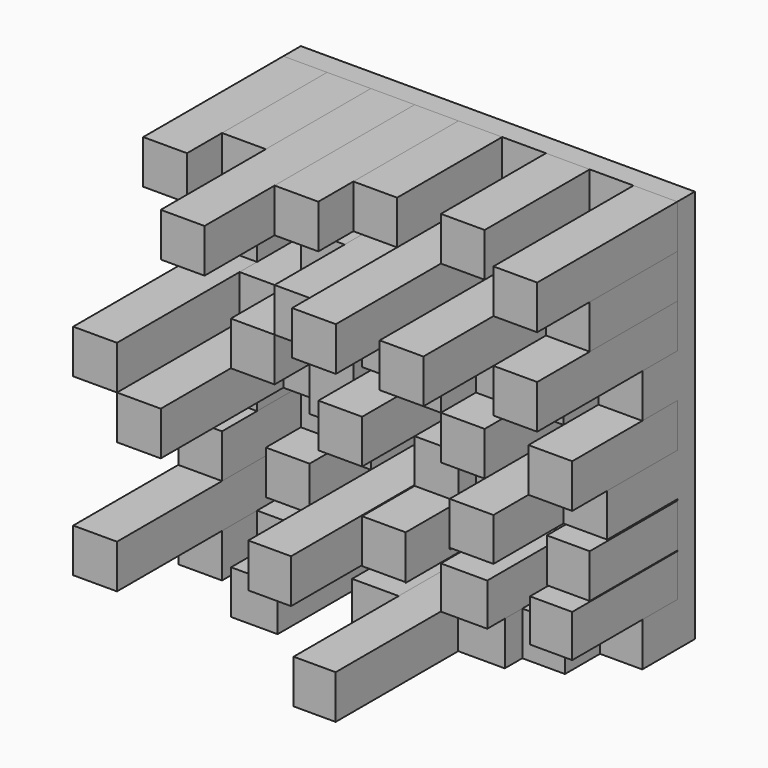
from build123d import *

# Parameters (mm, degrees)
F0_W     = 457.2
F0_H     = 457.2
F1_DEPTH = 25.4
F2_W     = 50.8
F2_H     = 50.8
F2_W_2   = 49.0413205385
F3_DEPTH = 50.8
F2_W_3   = 50.0872740626
F2_W_4   = 49.5425760746
F2_W_5   = 51.0927143574
F4_DEPTH = 101.6
F5_DEPTH = 203.2
F2_W_6   = 54.0473535657
F6_DEPTH = 152.4
F2_H_2   = 49.248783002
F7_DEPTH = 127
F2_W_7   = 49.7753368378
F2_H_3   = 50.8513133973
F2_W_8   = 45.7891877741
F2_H_4   = 50.5978857078
F8_DEPTH = 304.8
F2_W_9   = 49.5903550923
F2_H_5   = 50.9530280046
F2_W_10  = 48.7919058651


with BuildPart() as f1:
    # F0 (on Front) → F1 (new body)
    with BuildSketch(Plane.XZ):
        with Locations((-2.1820962429, 100.8818132959)):
            Rectangle(F0_W, F0_H)
    extrude(amount=F1_DEPTH)

    # F2 (on face) → F3 (join)
    with BuildSketch(Plane.XZ.offset(25.4)):
        with Locations((-103.7820962429, 253.2818132959)):
            Rectangle(F2_W, F2_H)
        with Locations((201.8972434878, -102.3181867041)):
            Rectangle(F2_W_2, F2_H)
        Polygon((23.2179037571, 75.4818132959), (-27.5820962429, 75.4818132959), (-27.5820962429, 24.6818132959), (22.0082588494, 24.6818132959), (23.2179037571, 24.6818132959), align=None)
        Polygon((-129.1820962429, -26.1181867041), (-179.9820962429, -26.1181867041), (-179.9820962429, -76.9181867041), (-128.8893818855, -76.9181867041), (-128.8893818855, -26.1181867041), align=None)
        with Locations((99.4179037571, 253.2818132959)):
            Rectangle(F2_W, F2_H)
        with Locations((-154.5820962429, 50.0818132959)):
            Rectangle(F2_W, F2_H)
        with Locations((201.0179037571, 151.6818132959)):
            Rectangle(F2_W, F2_H)
        with Locations((-2.1820962429, 151.6818132959)):
            Rectangle(F2_W, F2_H)
        Polygon((176.6425669193, 24.0300893784), (175.6179037571, 24.0300893784), (125.6067305803, 24.0300893784), (125.6067305803, -26.8695764244), (176.6425669193, -26.8695764244), (176.6425669193, -26.8212240189), align=None)
    extrude(amount=F3_DEPTH)

    # F2 (on face) → F4 (join)
    with BuildSketch(Plane.XZ.offset(25.4)):
        with Locations((-205.3820962429, 304.0818132959)):
            Rectangle(F2_W, F2_H)
        with Locations((-2.1820962429, 304.0818132959)):
            Rectangle(F2_W, F2_H)
        with Locations((-103.7820962429, 151.6818132959)):
            Rectangle(F2_W, F2_H)
        with Locations((99.0615407884, 50.0818132959)):
            Rectangle(F2_W_3, F2_H)
        Polygon((-27.5820962429, -76.9181867041), (-29.0528405458, -76.9181867041), (-29.0528405458, -127.7181867041), (24.9945092946, -127.7181867041), (24.9945092946, -76.9181867041), align=None)
        with Locations((201.0179037571, 304.0818132959)):
            Rectangle(F2_W, F2_H)
        with Locations((99.4179037571, 151.6818132959)):
            Rectangle(F2_W, F2_H)
        with Locations((-205.3820962429, 202.4818132959)):
            Rectangle(F2_W, F2_H)
        with Locations((-205.3820962429, -102.3181867041)):
            Rectangle(F2_W, F2_H)
        Polygon((-78.3820962429, 24.6818132959), (-129.1820962429, 24.6818132959), (-129.1820962429, -26.1181867041), (-128.8893818855, -26.1181867041), (-78.3820962429, -26.1181867041), align=None)
        with Locations((-205.3820962429, 100.8818132959)):
            Rectangle(F2_W, F2_H)
        with Locations((-52.9820962429, 202.4818132959)):
            Rectangle(F2_W, F2_H)
        with Locations((150.2179037571, 202.4818132959)):
            Rectangle(F2_W, F2_H)
        Polygon((226.4179037571, 75.4818132959), (175.6179037571, 75.4818132959), (175.6179037571, 25.5301110446), (176.6425669193, 25.5301110446), (226.4179037571, 25.5301110446), align=None)
        with Locations((152.6052951813, -102.3181867041)):
            Rectangle(F2_W_4, F2_H)
        with Locations((99.4179037571, 202.4818132959)):
            Rectangle(F2_W, F2_H)
        with Locations((150.2179037571, 151.6818132959)):
            Rectangle(F2_W, F2_H)
        with Locations((-103.7820962429, 202.4818132959)):
            Rectangle(F2_W, F2_H)
        with Locations((-52.9820962429, 151.6818132959)):
            Rectangle(F2_W, F2_H)
        with Locations((-205.3820962429, 50.0818132959)):
            Rectangle(F2_W, F2_H)
        with Locations((-103.7820962429, 50.0818132959)):
            Rectangle(F2_W, F2_H)
        with Locations((-154.4357390642, -102.3181867041)):
            Rectangle(F2_W_5, F2_H)
    extrude(amount=F4_DEPTH)


with BuildPart() as f5:
    # F2 (on face) → F5 (new body)
    with BuildSketch(Plane.XZ.offset(25.4)):
        with Locations((48.6179037571, 202.4818132959)):
            Rectangle(F2_W, F2_H)
    extrude(amount=F5_DEPTH)


with BuildPart() as f5b:
    # F2 (on face) → F5, piece 2 (new body)
    with BuildSketch(Plane.XZ.offset(25.4)):
        with Locations((-52.9820962429, 202.4818132959)):
            Rectangle(F2_W, F2_H)
    extrude(amount=F5_DEPTH)


with BuildPart() as f5c:
    # F2 (on face) → F5, piece 3 (new body)
    with BuildSketch(Plane.XZ.offset(25.4)):
        with Locations((-103.7820962429, 151.6818132959)):
            Rectangle(F2_W, F2_H)
    extrude(amount=F5_DEPTH)


with BuildPart() as f5d:
    # F2 (on face) → F5, piece 4 (new body)
    with BuildSketch(Plane.XZ.offset(25.4)):
        with Locations((201.0179037571, 202.4818132959)):
            Rectangle(F2_W, F2_H)
    extrude(amount=F5_DEPTH)


with BuildPart() as f5e:
    # F2 (on face) → F5, piece 5 (new body)
    with BuildSketch(Plane.XZ.offset(25.4)):
        Polygon((175.6179037571, 75.4818132959), (124.8179037571, 75.4818132959), (124.8179037571, 24.6818132959), (124.8474121094, 24.6818132959), (124.8474121094, 24.0300893784), (125.6067305803, 24.0300893784), (125.6067305803, 25.5301110446), (175.6179037571, 25.5301110446), align=None)
    extrude(amount=F5_DEPTH)


with BuildPart() as f5f:
    # F2 (on face) → F5, piece 6 (new body)
    with BuildSketch(Plane.XZ.offset(25.4)):
        Polygon((73.8031491637, 24.6818132959), (23.2179037571, 24.6818132959), (23.2179037571, -26.2712147087), (24.9945092946, -26.2712147087), (73.7864151597, -26.2712147087), (73.7864151597, -26.9699431956), (73.8031491637, -26.9699431956), align=None)
    extrude(amount=F5_DEPTH)


with BuildPart() as f5g:
    # F2 (on face) → F5, piece 7 (new body)
    with BuildSketch(Plane.XZ.offset(25.4)):
        with Locations((-2.1820962429, 100.8818132959)):
            Rectangle(F2_W, F2_H)
    extrude(amount=F5_DEPTH)


with BuildPart() as f5h:
    # F2 (on face) → F5, piece 8 (new body)
    with BuildSketch(Plane.XZ.offset(25.4)):
        with Locations((-205.3820962429, 304.0818132959)):
            Rectangle(F2_W, F2_H)
    extrude(amount=F5_DEPTH)


with BuildPart() as f5i:
    # F2 (on face) → F5, piece 9 (new body)
    with BuildSketch(Plane.XZ.offset(25.4)):
        with Locations((-52.9820962429, 304.0818132959)):
            Rectangle(F2_W, F2_H)
    extrude(amount=F5_DEPTH)


with BuildPart() as f5j:
    # F2 (on face) → F5, piece 10 (new body)
    with BuildSketch(Plane.XZ.offset(25.4)):
        with Locations((201.0179037571, 304.0818132959)):
            Rectangle(F2_W, F2_H)
    extrude(amount=F5_DEPTH)


with BuildPart() as f5k:
    # F2 (on face) → F5, piece 11 (new body)
    with BuildSketch(Plane.XZ.offset(25.4)):
        with Locations((-101.8657051027, -102.3181867041)):
            Rectangle(F2_W_6, F2_H)
    extrude(amount=F5_DEPTH)


with BuildPart() as f6:
    # F2 (on face) → F6 (new body)
    with BuildSketch(Plane.XZ.offset(25.4)):
        with Locations((-52.9820962429, 151.6818132959)):
            Rectangle(F2_W, F2_H)
        with Locations((-52.9820962429, 100.8818132959)):
            Rectangle(F2_W, F2_H)
    extrude(amount=F6_DEPTH)


with BuildPart() as f6b:
    # F2 (on face) → F6, piece 2 (new body)
    with BuildSketch(Plane.XZ.offset(25.4)):
        with Locations((48.6179037571, 151.6818132959)):
            Rectangle(F2_W, F2_H)
    extrude(amount=F6_DEPTH)


with BuildPart() as f6c:
    # F2 (on face) → F6, piece 3 (new body)
    with BuildSketch(Plane.XZ.offset(25.4)):
        with Locations((99.4179037571, 304.0818132959)):
            Rectangle(F2_W, F2_H)
    extrude(amount=F6_DEPTH)


with BuildPart() as f6d:
    # F2 (on face) → F6, piece 4 (new body)
    with BuildSketch(Plane.XZ.offset(25.4)):
        with Locations((-2.1820962429, 304.0818132959)):
            Rectangle(F2_W, F2_H)
    extrude(amount=F6_DEPTH)


with BuildPart() as f6e:
    # F2 (on face) → F6, piece 5 (new body)
    with BuildSketch(Plane.XZ.offset(25.4)):
        Polygon((-27.5820962429, -76.9181867041), (-29.0528405458, -76.9181867041), (-29.0528405458, -127.7181867041), (24.9945092946, -127.7181867041), (24.9945092946, -76.9181867041), align=None)
    extrude(amount=F6_DEPTH)


with BuildPart() as f6f:
    # F2 (on face) → F6, piece 6 (new body)
    with BuildSketch(Plane.XZ.offset(25.4)):
        Polygon((124.8474121094, -27.669403702), (74.0179037571, -27.669403702), (74.0179037571, -76.9181867041), (127.834007144, -76.9181867041), (127.834007144, -27.669403702), align=None)
    extrude(amount=F6_DEPTH)


with BuildPart() as f6g:
    # F2 (on face) → F6, piece 7 (new body)
    with BuildSketch(Plane.XZ.offset(25.4)):
        Polygon((124.8179037571, 126.2818132959), (74.0179037571, 126.2818132959), (74.0179037571, 75.4818132959), (124.1051778197, 75.4818132959), (124.8179037571, 75.4818132959), align=None)
    extrude(amount=F6_DEPTH)


with BuildPart() as f6h:
    # F2 (on face) → F6, piece 8 (new body)
    with BuildSketch(Plane.XZ.offset(25.4)):
        with Locations((-205.3820962429, -0.7181867041)):
            Rectangle(F2_W, F2_H)
    extrude(amount=F6_DEPTH)


with BuildPart() as f6i:
    # F2 (on face) → F6, piece 9 (new body)
    with BuildSketch(Plane.XZ.offset(25.4)):
        with Locations((-154.5820962429, 304.0818132959)):
            Rectangle(F2_W, F2_H)
    extrude(amount=F6_DEPTH)


with BuildPart() as f6j:
    # F2 (on face) → F6, piece 10 (new body)
    with BuildSketch(Plane.XZ.offset(25.4)):
        with Locations((-205.3820962429, -102.3181867041)):
            Rectangle(F2_W, F2_H)
    extrude(amount=F6_DEPTH)


with BuildPart() as f6k:
    # F2 (on face) → F6, piece 11 (new body)
    with BuildSketch(Plane.XZ.offset(25.4)):
        with Locations((201.8972434878, -52.293795203)):
            Rectangle(F2_W_2, F2_H_2)
    extrude(amount=F6_DEPTH)


with BuildPart() as f6l:
    # F2 (on face) → F6, piece 12 (new body)
    with BuildSketch(Plane.XZ.offset(25.4)):
        with Locations((201.0179037571, 100.8818132959)):
            Rectangle(F2_W, F2_H)
    extrude(amount=F6_DEPTH)


with BuildPart() as f6m:
    # F2 (on face) → F6, piece 13 (new body)
    with BuildSketch(Plane.XZ.offset(25.4)):
        Polygon((-78.3820962429, 24.6818132959), (-129.1820962429, 24.6818132959), (-129.1820962429, -26.1181867041), (-128.8893818855, -26.1181867041), (-78.3820962429, -26.1181867041), align=None)
    extrude(amount=F6_DEPTH)


with BuildPart() as f7:
    # F2 (on face) → F7 (new body)
    with BuildSketch(Plane.XZ.offset(25.4)):
        with Locations((-205.3820962429, 253.2818132959)):
            Rectangle(F2_W, F2_H)
    extrude(amount=F7_DEPTH)


with BuildPart() as f7b:
    # F2 (on face) → F7, piece 2 (new body)
    with BuildSketch(Plane.XZ.offset(25.4)):
        with Locations((-154.5820962429, 151.6818132959)):
            Rectangle(F2_W, F2_H)
    extrude(amount=F7_DEPTH)


with BuildPart() as f7c:
    # F2 (on face) → F7, piece 3 (new body)
    with BuildSketch(Plane.XZ.offset(25.4)):
        with Locations((-103.7820962429, 100.8818132959)):
            Rectangle(F2_W, F2_H)
    extrude(amount=F7_DEPTH)


with BuildPart() as f7d:
    # F2 (on face) → F7, piece 4 (new body)
    with BuildSketch(Plane.XZ.offset(25.4)):
        Polygon((74.0179037571, 75.4818132959), (23.2179037571, 75.4818132959), (23.2179037571, 24.6818132959), (73.8031491637, 24.6818132959), (74.0179037571, 24.6818132959), align=None)
    extrude(amount=F7_DEPTH)


with BuildPart() as f7e:
    # F2 (on face) → F7, piece 5 (new body)
    with BuildSketch(Plane.XZ.offset(25.4)):
        with Locations((201.5302353382, -1.3955673203)):
            Rectangle(F2_W_7, F2_H_3)
    extrude(amount=F7_DEPTH)


with BuildPart() as f7f:
    # F2 (on face) → F7, piece 6 (new body)
    with BuildSketch(Plane.XZ.offset(25.4)):
        Polygon((127.834007144, -76.9181867041), (74.0179037571, -76.9181867041), (73.7864151597, -76.9181867041), (73.7864151597, -127.7181867041), (127.834007144, -127.7181867041), align=None)
    extrude(amount=F7_DEPTH)


with BuildPart() as f7g:
    # F2 (on face) → F7, piece 7 (new body)
    with BuildSketch(Plane.XZ.offset(25.4)):
        with Locations((201.0179037571, 253.2818132959)):
            Rectangle(F2_W, F2_H)
    extrude(amount=F7_DEPTH)


with BuildPart() as f7h:
    # F2 (on face) → F7, piece 8 (new body)
    with BuildSketch(Plane.XZ.offset(25.4)):
        with Locations((-51.9474344328, -51.6192438502)):
            Rectangle(F2_W_8, F2_H_4)
    extrude(amount=F7_DEPTH)


with BuildPart() as f7i:
    # F2 (on face) → F7, piece 9 (new body)
    with BuildSketch(Plane.XZ.offset(25.4)):
        with Locations((-52.9820962429, 50.0818132959)):
            Rectangle(F2_W, F2_H)
    extrude(amount=F7_DEPTH)


with BuildPart() as f8:
    # F2 (on face) → F8 (new body)
    with BuildSketch(Plane.XZ.offset(25.4)):
        with Locations((150.2179037571, 253.2818132959)):
            Rectangle(F2_W, F2_H)
    extrude(amount=F8_DEPTH)


with BuildPart() as f8b:
    # F2 (on face) → F8, piece 2 (new body)
    with BuildSketch(Plane.XZ.offset(25.4)):
        with Locations((48.6179037571, 253.2818132959)):
            Rectangle(F2_W, F2_H)
    extrude(amount=F8_DEPTH)


with BuildPart() as f8c:
    # F2 (on face) → F8, piece 3 (new body)
    with BuildSketch(Plane.XZ.offset(25.4)):
        with Locations((-103.7820962429, 304.0818132959)):
            Rectangle(F2_W, F2_H)
    extrude(amount=F8_DEPTH)


with BuildPart() as f8d:
    # F2 (on face) → F8, piece 4 (new body)
    with BuildSketch(Plane.XZ.offset(25.4)):
        with Locations((-205.3820962429, 151.6818132959)):
            Rectangle(F2_W, F2_H)
    extrude(amount=F8_DEPTH)


with BuildPart() as f8e:
    # F2 (on face) → F8, piece 5 (new body)
    with BuildSketch(Plane.XZ.offset(25.4)):
        with Locations((-205.3820962429, -51.5181867041)):
            Rectangle(F2_W, F2_H)
    extrude(amount=F8_DEPTH)


with BuildPart() as f8f:
    # F2 (on face) → F8, piece 6 (new body)
    with BuildSketch(Plane.XZ.offset(25.4)):
        with Locations((-154.5820962429, 100.8818132959)):
            Rectangle(F2_W, F2_H)
    extrude(amount=F8_DEPTH)


with BuildPart() as f8g:
    # F2 (on face) → F8, piece 7 (new body)
    with BuildSketch(Plane.XZ.offset(25.4)):
        with Locations((-2.7869186968, -0.7947007064)):
            Rectangle(F2_W_9, F2_H_5)
    extrude(amount=F8_DEPTH)


with BuildPart() as f8h:
    # F2 (on face) → F8, piece 8 (new body)
    with BuildSketch(Plane.XZ.offset(25.4)):
        with Locations((49.3904622272, -102.3181867041)):
            Rectangle(F2_W_10, F2_H)
    extrude(amount=F8_DEPTH)


solid = Compound([f1.part, f5.part, f5b.part, f5c.part, f5d.part, f5e.part, f5f.part, f5g.part, f5h.part, f5i.part, f5j.part, f5k.part, f6.part, f6b.part, f6c.part, f6d.part, f6e.part, f6f.part, f6g.part, f6h.part, f6i.part, f6j.part, f6k.part, f6l.part, f6m.part, f7.part, f7b.part, f7c.part, f7d.part, f7e.part, f7f.part, f7g.part, f7h.part, f7i.part, f8.part, f8b.part, f8c.part, f8d.part, f8e.part, f8f.part, f8g.part, f8h.part])
